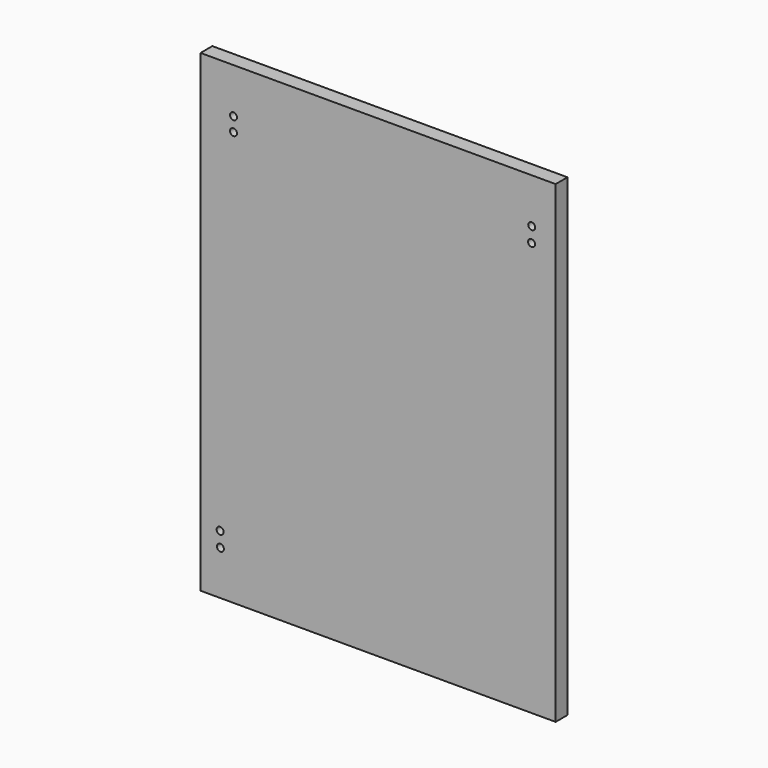
from build123d import *

# Parameters (mm, degrees)
F0_W      = 152.4
F0_H      = 203.2
F1_DEPTH  = 6.35
F3_R      = 1.5
F5_DEPTH  = 6.35
F4_R      = 1.5
F6_DEPTH  = 6.35
F7_R      = 1.5
F8_DEPTH  = 6.35
F10_R     = 1.5
F9_R      = 1.5
F11_DEPTH = 6.35


with BuildPart() as f1:
    # F0 (on Front) → F1 (new body)
    with BuildSketch(Plane.XZ):
        Rectangle(F0_W, F0_H)
    extrude(amount=F1_DEPTH)

    # F3 (on face) → F5 (cut)
    with BuildSketch(Plane.XZ.offset(6.35)):
        with Locations((-62.046528, 82.261689)):
            Circle(F3_R)
    extrude(amount=-F5_DEPTH, mode=Mode.SUBTRACT)

    # F4 (on face) → F6 (cut)
    with BuildSketch(Plane.XZ.offset(6.35)):
        with Locations((-62.046528, 76.257184)):
            Circle(F4_R)
    extrude(amount=-F6_DEPTH, mode=Mode.SUBTRACT)

    # F7 (on face) → F8 (cut)
    with BuildSketch(Plane.XZ.offset(6.35)):
        with Locations((65.942168, 82.361914)):
            Circle(F7_R)
        with Locations((65.858014, 75.966306)):
            Circle(F7_R)
    extrude(amount=-F8_DEPTH, mode=Mode.SUBTRACT)

    # F10 (on face) + F9 (on face) → F11 (cut)
    with BuildSketch(Plane.XZ.offset(6.35)):
        with Locations((-67.659773, -82.573913)):
            Circle(F10_R)
    with BuildSketch(Plane.XZ.offset(6.35)):
        with Locations((-67.801304, -76.205179)):
            Circle(F9_R)
    extrude(amount=-F11_DEPTH, mode=Mode.SUBTRACT)


solid = f1.part
